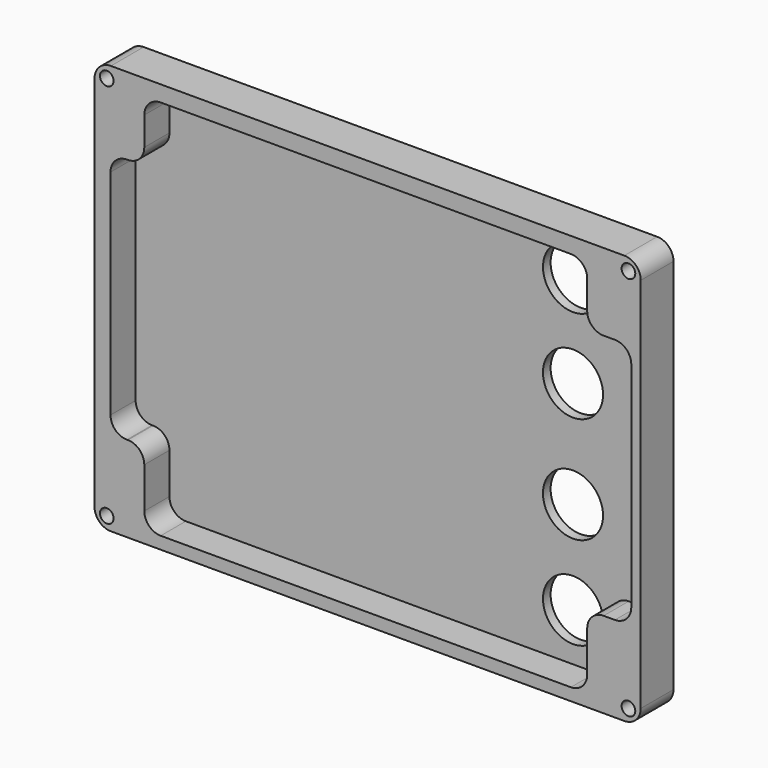
from build123d import *

# Parameters (mm, degrees)
F0_W     = 14
F0_H     = 23.5
F0_R     = 2.5
F1_DEPTH = 15
F2_DEPTH = 3.5
F3_R     = 6
F4_R     = 11
F5_DEPTH = 25


with BuildPart() as f1:
    # F0 (on Front) → F1 (new body)
    with BuildSketch(Plane.XZ):
        with Locations((-179, 133.75)):
            Rectangle(F0_W, F0_H)
        with Locations((-181.5, 141)):
            Circle(F0_R, mode=Mode.SUBTRACT)
        Polygon((0, 145.5), (-172, 145.5), (-172, 122), (-186, 122), (-186, 19), (-172, 19), (-172, -4.5), (0, -4.5), (0, 19), (14, 19), (14, 122), (0, 122), align=None)
        Polygon((-167.763814, 139.657289), (-5.603518, 139.657289), (-5.603518, 117.238402), (10.543795, 117.238402), (10.543795, 26.938597), (-5.603518, 26.938597), (-5.603518, 0), (-167.763814, 0), (-167.763814, 26.938597), (-180.131972, 26.938597), (-180.131972, 117.238402), (-167.763814, 117.238402), align=None, mode=Mode.SUBTRACT)
        with Locations((7, 133.75)):
            Rectangle(F0_W, F0_H)
        with Locations((9.5, 141)):
            Circle(F0_R, mode=Mode.SUBTRACT)
        with Locations((-179, 7.25)):
            Rectangle(F0_W, F0_H)
        with Locations((-181.5, 0)):
            Circle(F0_R, mode=Mode.SUBTRACT)
        with Locations((7, 7.25)):
            Rectangle(F0_W, F0_H)
        with Locations((9.5, 0)):
            Circle(F0_R, mode=Mode.SUBTRACT)
    extrude(amount=F1_DEPTH)

    # F0 (on Front) → F2 (join)
    with BuildSketch(Plane.XZ):
        Polygon((-5.603518, 117.238402), (-5.603518, 139.657289), (-167.763814, 139.657289), (-167.763814, 117.238402), (-180.131972, 117.238402), (-180.131972, 26.938597), (-167.763814, 26.938597), (-167.763814, 0), (-5.603518, 0), (-5.603518, 26.938597), (10.543795, 26.938597), (10.543795, 117.238402), align=None)
    extrude(amount=F2_DEPTH)

    # F3
    f3_edges = [f1.edges().sort_by_distance(p)[0] for p in [
        (-186, -7.5, 145.5),
        (-186, -7.5, -4.5),
        (14, -7.5, -4.5),
        (14, -7.5, 145.5),
        (-180.131972, -9.25, 26.938597),
        (-167.763814, -9.25, 26.938597),
        (-167.763814, -9.25, 0),
        (-5.603518, -9.25, 0),
        (-5.603518, -9.25, 26.938597),
        (10.543795, -9.25, 26.938597),
        (-180.131972, -9.25, 117.238402),
        (-167.763814, -9.25, 117.238402),
        (-167.763814, -9.25, 139.657289),
        (10.543795, -9.25, 117.238402),
        (-5.603518, -9.25, 117.238402),
        (-5.603518, -9.25, 139.657289),
    ]]
    fillet(f3_edges, radius=F3_R)

    # F4 (on face) → F5 (cut)
    with BuildSketch(Plane.XZ.offset(3.5)):
        with Locations((-20, 124.5)):
            Circle(F4_R)
        with Locations((-20, 90.5)):
            Circle(F4_R)
        with Locations((-20, 51.5)):
            Circle(F4_R)
        with Locations((-20, 17.5)):
            Circle(F4_R)
    extrude(amount=-F5_DEPTH, mode=Mode.SUBTRACT)


solid = f1.part
